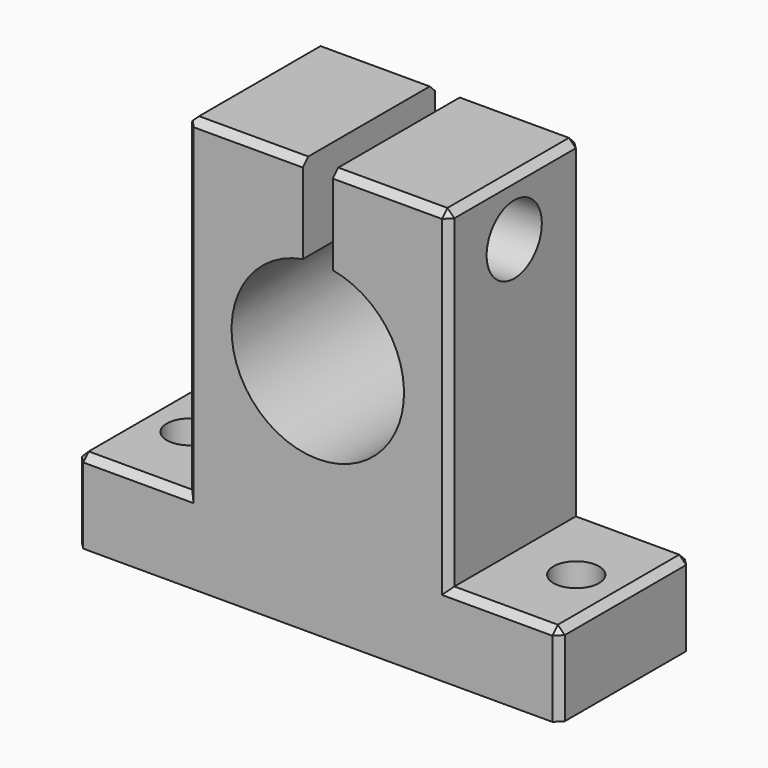
from build123d import *

# Parameters (mm, degrees)
F1_W      = 70
F1_H      = 12
F2_DEPTH  = 24
F3_W      = 38
F3_H      = 50
F4_DEPTH  = 24
F5_R      = 12.5
F6_DEPTH  = 24
F7_W      = 4.3481588364
F7_H      = 18.8432261348
F8_DEPTH  = 24
F9_R      = 3.3
F10_DEPTH = 25
F11_R     = 3.3
F12_DEPTH = 25
F13_R     = 3
F14_DEPTH = 50
F15_R     = 5
F15_R_2   = 3
F16_DEPTH = 8
F17_SIZE  = 1
F18_SIZE  = 1


with BuildPart() as f2:
    # F1 (on Front) → F2 (new body)
    with BuildSketch(Plane.XZ):
        with Locations((0, -28.981200866)):
            Rectangle(F1_W, F1_H)
    extrude(amount=F2_DEPTH)

    # F3 (on Front) → F4 (join)
    with BuildSketch(Plane.XZ):
        Rectangle(F3_W, F3_H)
    extrude(amount=F4_DEPTH)

    # F5 (on face) → F6 (cut)
    with BuildSketch(Plane.XZ.offset(24)):
        Circle(F5_R)
    extrude(amount=-F6_DEPTH, mode=Mode.SUBTRACT)

    # F7 (on Front) → F8 (cut)
    with BuildSketch(Plane.XZ):
        with Locations((0, 19.3257555366)):
            Rectangle(F7_W, F7_H)
    extrude(amount=F8_DEPTH, mode=Mode.SUBTRACT)

    # F9 (on face) → F10 (cut)
    with BuildSketch(Plane(origin=(0, 0, -34.981200866), x_dir=(1, 0, 0), z_dir=(0, 0, -1))):
        with Locations((-28.0725006014, 12.1359182522)):
            Circle(F9_R)
    extrude(amount=-F10_DEPTH, mode=Mode.SUBTRACT)

    # F11 (on face) → F12 (cut)
    with BuildSketch(Plane(origin=(0, 0, -34.981200866), x_dir=(1, 0, 0), z_dir=(0, 0, -1))):
        with Locations((27.9758609831, 12.1359182522)):
            Circle(F11_R)
    extrude(amount=-F12_DEPTH, mode=Mode.SUBTRACT)

    # F13 (on face) → F14 (cut)
    with BuildSketch(Plane.YZ.offset(19)):
        with Locations((-12.1533777565, 16.9065129012)):
            Circle(F13_R)
    extrude(amount=-F14_DEPTH, mode=Mode.SUBTRACT)

    # F15 (on face) → F16 (cut)
    with BuildSketch(Plane.YZ.offset(19)):
        with Locations((-12.1533777565, 16.9065129012)):
            Circle(F15_R)
        with Locations((-12.1533777565, 16.9065129012)):
            Circle(F15_R_2, mode=Mode.SUBTRACT)
    extrude(amount=-F16_DEPTH, mode=Mode.SUBTRACT)

    # F17
    f17_edges = [f2.edges().sort_by_distance(p)[0] for p in [
        (19, 0, 1.0094),
        (19, -12, 25),
        (19, -24, 1.0094),
        (27, 0, -22.981201),
        (35, -12, -22.981201),
        (27, -24, -22.981201),
        (35, 0, -28.981201),
        (35, -24, -28.981201),
        (10.58704, -24, 25),
        (-10.58704, -24, 25),
        (-10.58704, 0, 25),
        (10.58704, 0, 25),
    ]]
    chamfer(f17_edges, length=F17_SIZE)

    # F18 (call 1 of 2: OpenCascade refuses the feature's edges together)
    f18_edges = [f2.edges().sort_by_distance(p)[0] for p in [
        (-19, -12, 25),
    ]]
    chamfer(f18_edges, length=F18_SIZE)

    # F18#2 (call 2 of 2)
    f18_2_edges = [f2.edges().sort_by_distance(p)[0] for p in [
        (-19, 0, 0.5094),
        (-19, -24, 0.5094),
        (-27, -24, -22.981201),
        (-35, -12, -22.981201),
        (-27, 0, -22.981201),
        (-35, 0, -28.981201),
        (-35, -24, -28.981201),
    ]]
    chamfer(f18_2_edges, length=F18_SIZE)


solid = f2.part
